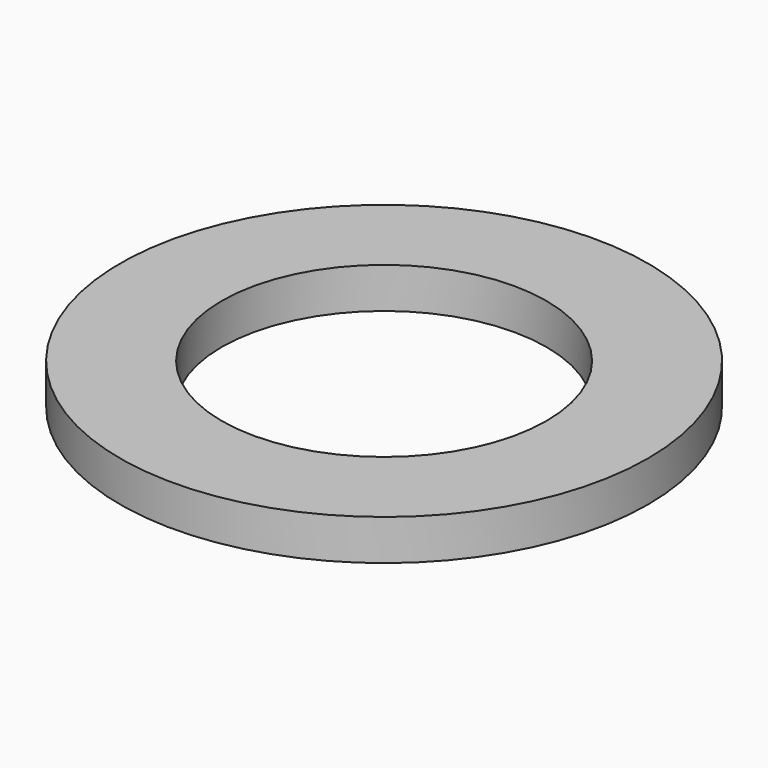
from build123d import *

# Parameters (mm, degrees)
CYLINDER007_R     = 0.4
CYLINDER007_DEPTH = 0.1
CYLINDER006_R     = 0.65
CYLINDER006_DEPTH = 0.1


with BuildPart() as cylinder007:
    # Cylinder007 → Cylinder007 (new body)
    with BuildSketch(Plane.XY.offset(1.62)):
        Circle(CYLINDER007_R)
    extrude(amount=CYLINDER007_DEPTH)


with BuildPart() as cut010:
    # Cylinder006 → Cylinder006 (new body)
    with BuildSketch(Plane.XY.offset(1.62)):
        Circle(CYLINDER006_R)
    extrude(amount=CYLINDER006_DEPTH)

    # Cut010: cut Cylinder007
    add(cylinder007.part, mode=Mode.SUBTRACT)


with BuildPart() as cut010_1:
    # Cut010 placement: moved
    add(cut010.part.moved(Location((13.8, 12.7, 0))))


solid = cut010_1.part
